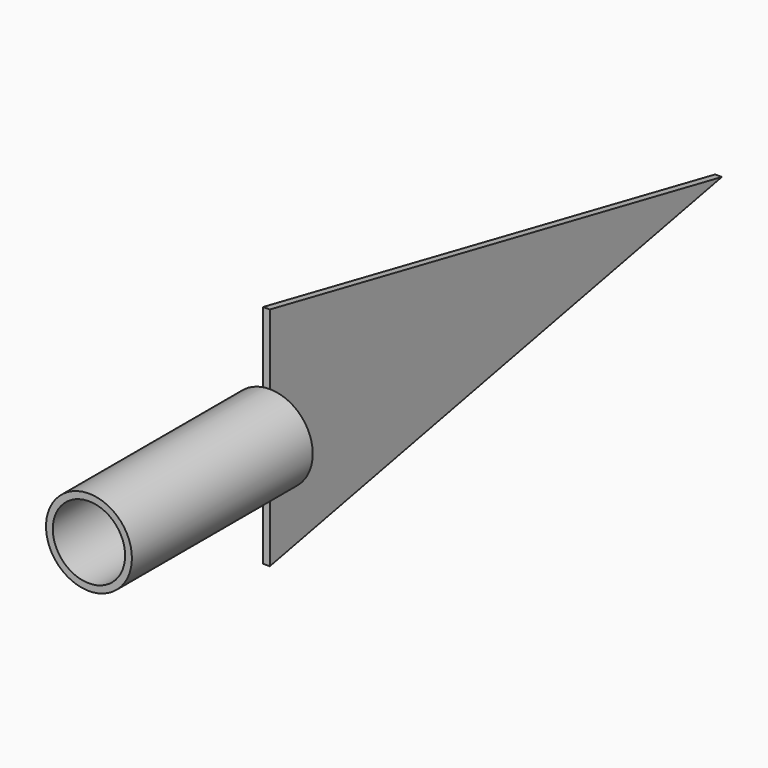
from build123d import *

# Parameters (mm, degrees)
F0_R     = 19
F0_R_2   = 16
F1_DEPTH = 100
F3_DEPTH = 3


with BuildPart() as f1:
    # F0 (on Front) → F1 (new body)
    with BuildSketch(Plane.XZ):
        Circle(F0_R)
        Circle(F0_R_2, mode=Mode.SUBTRACT)
    extrude(amount=F1_DEPTH)

    # F2 (on Right) → F3 (join)
    with BuildSketch(Plane.YZ):
        Polygon((0, -50), (250, 0), (0, 50), (0, 0), align=None)
    extrude(amount=-F3_DEPTH)


solid = f1.part
